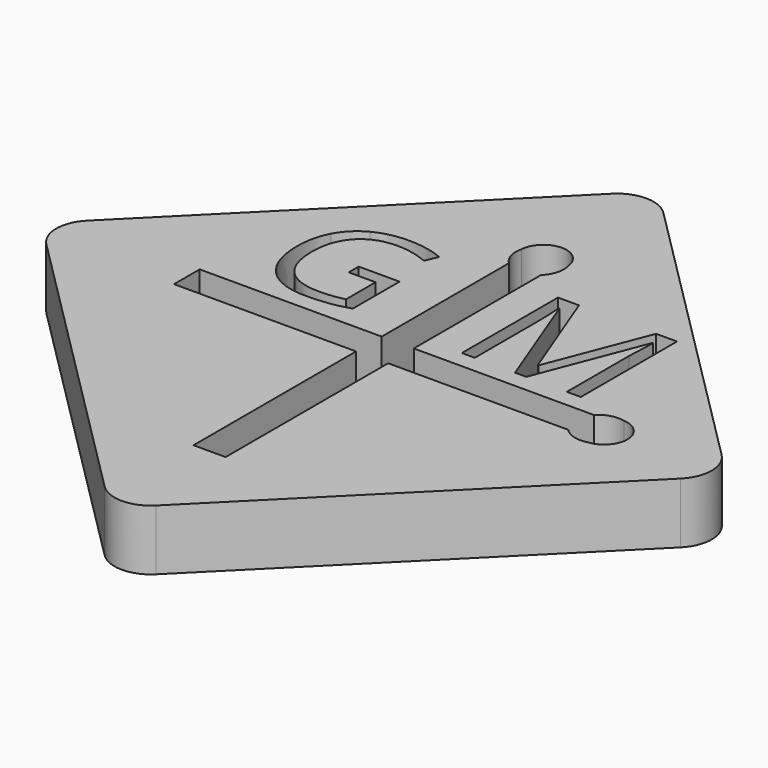
from build123d import *

# Parameters (mm, degrees)
F1_DEPTH = 2.5
F2_R     = 0.85
F3_DEPTH = 12.5


with BuildPart() as f1:
    # F0 (on Top) → F1 (new body)
    with BuildSketch(Plane.XY):
        with BuildLine():
            Line((13.081475452, -13.081475452), (1.0606601718, -1.0606601718))
            ThreePointArc((1.0606601718, -1.0606601718), (0, -0.6213203436), (-1.0606601718, -1.0606601718))
            Line((-1.0606601718, -1.0606601718), (-13.081475452, -13.081475452))
            ThreePointArc((-13.081475452, -13.081475452), (-13.5208152802, -14.1421356237), (-13.081475452, -15.2027957955))
            Line((-13.081475452, -15.2027957955), (-1.0606601718, -27.2236110757))
            ThreePointArc((-1.0606601718, -27.2236110757), (0, -27.6629509039), (1.0606601718, -27.2236110757))
            Line((1.0606601718, -27.2236110757), (13.081475452, -15.2027957955))
            ThreePointArc((13.081475452, -15.2027957955), (13.5208152802, -14.1421356237), (13.081475452, -13.081475452))
        make_face()
        with BuildLine():
            Line((-4.2551746457, -10.6432923429), (-4.2551746457, -10.1278843568))
            Line((-4.2551746457, -10.1278843568), (-2.5700617985, -10.1278843568))
            Line((-2.5700617985, -10.1278843568), (-2.5700617985, -12.5389086623))
            add(Edge.make_bspline(
                [(-2.5700617985, -12.5389086623), (-2.9639420069, -12.6647767179), (-3.3708430485, -12.7293383498)],
                knots=[0, 0, 0, 1, 1, 1], degree=2))
            add(Edge.make_bspline(
                [(-3.3708430485, -12.7293383498), (-3.7777440902, -12.7938999818), (-4.3137683957, -12.7938999818)],
                knots=[0, 0, 0, 1, 1, 1], degree=2))
            add(Edge.make_bspline(
                [(-4.3137683957, -12.7938999818), (-5.4389854096, -12.7938999818), (-6.0661555485, -12.1238695998)],
                knots=[0, 0, 0, 1, 1, 1], degree=2))
            add(Edge.make_bspline(
                [(-6.0661555485, -12.1238695998), (-6.6933256874, -11.4538392179), (-6.6933256874, -10.2472419957)],
                knots=[0, 0, 0, 1, 1, 1], degree=2))
            add(Edge.make_bspline(
                [(-6.6933256874, -10.2472419957), (-6.6933256874, -9.4735874818), (-6.3829958263, -8.8919902595)],
                knots=[0, 0, 0, 1, 1, 1], degree=2))
            add(Edge.make_bspline(
                [(-6.3829958263, -8.8919902595), (-6.0726659652, -8.3103930373), (-5.4894411388, -8.0038609193)],
                knots=[0, 0, 0, 1, 1, 1], degree=2))
            add(Edge.make_bspline(
                [(-5.4894411388, -8.0038609193), (-4.9062163124, -7.6973288012), (-4.123881243, -7.6973288012)],
                knots=[0, 0, 0, 1, 1, 1], degree=2))
            add(Edge.make_bspline(
                [(-4.123881243, -7.6973288012), (-3.3296104096, -7.6973288012), (-2.6449315902, -7.9881274123)],
                knots=[0, 0, 0, 1, 1, 1], degree=2))
            Line((-2.6449315902, -7.9881274123), (-2.8684558957, -8.4970249818))
            add(Edge.make_bspline(
                [(-2.8684558957, -8.4970249818), (-3.5401138819, -8.2127367873), (-4.1607736041, -8.2127367873)],
                knots=[0, 0, 0, 1, 1, 1], degree=2))
            add(Edge.make_bspline(
                [(-4.1607736041, -8.2127367873), (-5.0657215207, -8.2127367873), (-5.5746190902, -8.7514737665)],
                knots=[0, 0, 0, 1, 1, 1], degree=2))
            add(Edge.make_bspline(
                [(-5.5746190902, -8.7514737665), (-6.0835166596, -9.2902107457), (-6.0835166596, -10.2472419957)],
                knots=[0, 0, 0, 1, 1, 1], degree=2))
            add(Edge.make_bspline(
                [(-6.0835166596, -10.2472419957), (-6.0835166596, -11.2509312318), (-5.5936078055, -11.7695944262)],
                knots=[0, 0, 0, 1, 1, 1], degree=2))
            add(Edge.make_bspline(
                [(-5.5936078055, -11.7695944262), (-5.1036989513, -12.2882576207), (-4.1542631874, -12.2882576207)],
                knots=[0, 0, 0, 1, 1, 1], degree=2))
            add(Edge.make_bspline(
                [(-4.1542631874, -12.2882576207), (-3.6388552013, -12.2882576207), (-3.147318743, -12.1688999818)],
                knots=[0, 0, 0, 1, 1, 1], degree=2))
            Line((-3.147318743, -12.1688999818), (-3.147318743, -10.6432923429))
            Line((-3.147318743, -10.6432923429), (-4.2551746457, -10.6432923429))
        make_face(mode=Mode.SUBTRACT)
        with BuildLine():
            Line((-8.1334756687, -14.8039748892), (-8.1334756687, -13.4802963582))
            Line((-8.1334756687, -13.4802963582), (-0.6236797201, -13.4802963582))
            Line((-0.6236797201, -13.4802963582), (-0.6236797201, -6.9198086858))
            ThreePointArc((-0.6236797201, -6.9198086858), (-0.9032194318, -6.4583786209), (-0.9135835525, -5.9189782686))
            ThreePointArc((-0.9135835525, -5.9189782686), (0.0168397474, -5.0141534426), (0.9868078824, -5.876451129))
            ThreePointArc((0.9868078824, -5.876451129), (0.9900106564, -6.4384308628), (0.6999988109, -6.9198086858))
            Line((0.6999988109, -6.9198086858), (0.6999988109, -13.4802963582))
            Line((0.6999988109, -13.4802963582), (8.1334756687, -13.4802963582))
            ThreePointArc((8.1334756687, -13.4802963582), (8.5949057336, -13.2007566465), (9.134306086, -13.1903925258))
            ThreePointArc((9.134306086, -13.1903925258), (10.0391309119, -14.1208158258), (9.1768332255, -15.0907839607))
            ThreePointArc((9.1768332255, -15.0907839607), (8.6148534917, -15.0939867347), (8.1334756687, -14.8039748892))
            Line((8.1334756687, -14.8039748892), (0.6999988109, -14.8039748892))
            Line((0.6999988109, -14.8039748892), (0.6999988109, -23.1867600232))
            Line((0.6999988109, -23.1867600232), (-0.6236797201, -23.1867600232))
            Line((-0.6236797201, -23.1867600232), (-0.6236797201, -14.8039748892))
            Line((-0.6236797201, -14.8039748892), (-8.1334756687, -14.8039748892))
        make_face(mode=Mode.SUBTRACT)
        with BuildLine():
            Line((4.7664273717, -12.7628665604), (4.3020176494, -12.7628665604))
            Line((4.3020176494, -12.7628665604), (2.6201600105, -8.3683353104))
            Line((2.6201600105, -8.3683353104), (2.5930332744, -8.3683353104))
            add(Edge.make_bspline(
                [(2.5930332744, -8.3683353104), (2.64077633, -8.8902537131), (2.64077633, -9.6096547548)],
                knots=[0, 0, 0, 1, 1, 1], degree=2))
            Line((2.64077633, -9.6096547548), (2.64077633, -12.7628665604))
            Line((2.64077633, -12.7628665604), (2.1080072328, -12.7628665604))
            Line((2.1080072328, -12.7628665604), (2.1080072328, -7.8051842687))
            Line((2.1080072328, -7.8051842687), (2.9760627883, -7.8051842687))
            Line((2.9760627883, -7.8051842687), (4.5461582744, -11.8948110048))
            Line((4.5461582744, -11.8948110048), (4.5732850105, -11.8948110048))
            Line((4.5732850105, -11.8948110048), (6.15640133, -7.8051842687))
            Line((6.15640133, -7.8051842687), (7.0179464689, -7.8051842687))
            Line((7.0179464689, -7.8051842687), (7.0179464689, -12.7628665604))
            Line((7.0179464689, -12.7628665604), (6.4417745939, -12.7628665604))
            Line((6.4417745939, -12.7628665604), (6.4417745939, -9.5684221159))
            add(Edge.make_bspline(
                [(6.4417745939, -9.5684221159), (6.4417745939, -9.019376977), (6.4895176494, -8.374845727)],
                knots=[0, 0, 0, 1, 1, 1], degree=2))
            Line((6.4895176494, -8.374845727), (6.4623909133, -8.374845727))
            Line((6.4623909133, -8.374845727), (4.7664273717, -12.7628665604))
        make_face(mode=Mode.SUBTRACT)
    extrude(amount=F1_DEPTH)

    # F2 (on Right) → F3 (cut, symmetric)
    with BuildSketch(Plane.YZ):
        with Locations((-2.4908210296, 1.292226194)):
            Circle(F2_R)
    extrude(amount=F3_DEPTH, both=True, mode=Mode.SUBTRACT)


solid = f1.part
